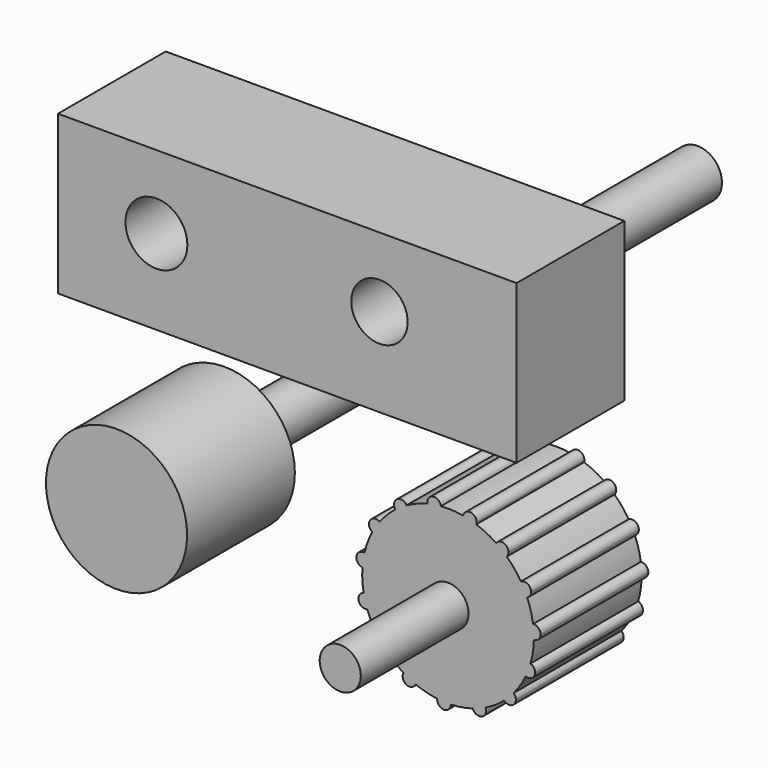
from build123d import *

# Parameters (mm, degrees)
F0_W     = 86.4718928933
F0_H     = 29.8421988264
F0_R     = 5.8367301555
F0_R_2   = 5.3169441362
F1_DEPTH = 25.4
F2_DEPTH = 25.4
F0_R_3   = 13.3089651356
F3_R     = 4.5956390335
F4_DEPTH = 111.5549
F5_R     = 3.875354641
F6_DEPTH = 25.4


with BuildPart() as f1:
    # F0 (on Front) → F1 (new body)
    with BuildSketch(Plane.XZ):
        with Locations((-7.9892538488, 28.6673116498)):
            Rectangle(F0_W, F0_H)
        with Locations((-32.6619371772, 29.7247134149)):
            Circle(F0_R, mode=Mode.SUBTRACT)
        with Locations((9.3991197646, 30.4296482354)):
            Circle(F0_R_2, mode=Mode.SUBTRACT)
    extrude(amount=F1_DEPTH)

    # F0 (on Front) → F2 (join)
    with BuildSketch(Plane.XZ):
        with Locations((-7.9892538488, 28.6673116498)):
            Rectangle(F0_W, F0_H)
        with Locations((-32.6619371772, 29.7247134149)):
            Circle(F0_R, mode=Mode.SUBTRACT)
        with Locations((9.3991197646, 30.4296482354)):
            Circle(F0_R_2, mode=Mode.SUBTRACT)
    extrude(amount=F2_DEPTH)


with BuildPart() as f2:
    # F0 (on Front) → F2, piece 2 (new body)
    with BuildSketch(Plane.XZ):
        with Locations((-40.181234479, -18.4457711875)):
            Circle(F0_R_3)
    extrude(amount=F2_DEPTH)

    # F3 (on face) → F4 (join)
    with BuildSketch(Plane(origin=(0, 0, 0), x_dir=(-1, 0, 0), z_dir=(0, 1, 0))):
        with Locations((40.181234479, -18.4457711875)):
            Circle(F3_R)
    extrude(amount=F4_DEPTH)


with BuildPart() as f2b:
    # F0 (on Front) → F2, piece 3 (new body)
    with BuildSketch(Plane.XZ):
        with BuildLine():
            ThreePointArc((38.5053209927, -14.566920689), (38.5081715854, -14.3915545669), (38.5091218202, -14.2161678523))
            ThreePointArc((38.5091218202, -14.2161678523), (38.470834554, -13.1035197974), (38.3561538866, -11.9961355131))
            ThreePointArc((38.3561538866, -11.9961355131), (37.1955306361, -13.3531996767), (38.5053209927, -14.566920689))
        make_face()
        with BuildLine():
            ThreePointArc((38.3561538866, -11.9961355131), (38.470834554, -13.1035197974), (38.5091218202, -14.2161678523))
            ThreePointArc((38.5091218202, -14.2161678523), (38.5081715854, -14.3915545669), (38.5053209927, -14.566920689))
            ThreePointArc((38.5053209927, -14.566920689), (39.4013317381, -14.181414366), (39.770518546, -13.2785569676))
            ThreePointArc((39.770518546, -13.2785569676), (39.3474885609, -12.3239585997), (38.3561538866, -11.9961355131))
        make_face()
        with BuildLine():
            ThreePointArc((38.5053209927, -14.566920689), (37.1955306361, -13.3531996767), (38.3561538866, -11.9961355131))
            ThreePointArc((38.3561538866, -11.9961355131), (37.9338888332, -9.9393941778), (37.2489420793, -7.9546169509))
            ThreePointArc((37.2489420793, -7.9546169509), (35.5587242385, -7.3785673661), (36.0670386147, -5.6667595589))
            ThreePointArc((36.0670386147, -5.6667595589), (34.8447282268, -3.9595835248), (33.4117166045, -2.4249922481))
            ThreePointArc((33.4117166045, -2.4249922481), (31.6333252992, -2.5862182972), (31.4014386276, -0.8156539676))
            ThreePointArc((31.4014386276, -0.8156539676), (29.5904314756, 0.2467705198), (27.657135713, 1.0658310732))
            ThreePointArc((27.657135713, 1.0658310732), (26.0980709561, 0.1952068389), (25.1660785488, 1.7183810332))
            ThreePointArc((25.1660785488, 1.7183810332), (23.0795142218, 1.9523511282), (20.9802187196, 1.9142579478))
            ThreePointArc((20.9802187196, 1.9142579478), (20.987501608, 1.8354467404), (20.9899322942, 1.7563370784))
            ThreePointArc((20.9899322942, 1.7563370784), (19.831598117, 0.4743601917), (18.4391087823, 1.4971877709))
            ThreePointArc((18.4391087823, 1.4971877709), (16.4377732083, 0.8622479185), (14.5354652304, -0.0264123389))
            ThreePointArc((14.5354652304, -0.0264123389), (14.6729905921, -0.3460548311), (14.7199744587, -0.6908403648))
            ThreePointArc((14.7199744587, -0.6908403648), (13.8253321714, -1.9177242224), (12.3836835135, -1.44098743))
            ThreePointArc((12.3836835135, -1.44098743), (10.8136257948, -2.8350503611), (9.4372316724, -4.4206202636))
            ThreePointArc((9.4372316724, -4.4206202636), (9.841639124, -4.8812771813), (9.9874396967, -5.4766698043))
            ThreePointArc((9.9874396967, -5.4766698043), (9.3392725141, -6.594839921), (8.046840783, -6.5881073848))
            ThreePointArc((8.046840783, -6.5881073848), (7.1795381627, -8.5002472491), (6.5670489438, -10.5085673562))
            ThreePointArc((6.5670489438, -10.5085673562), (7.3160642218, -10.9536596544), (7.6106262623, -11.7736378522))
            ThreePointArc((7.6106262623, -11.7736378522), (7.1809452542, -12.7342248282), (6.178460098, -13.0541882932))
            ThreePointArc((6.178460098, -13.0541882932), (6.1638770783, -15.1537787369), (6.4211977132, -17.2375922571))
            ThreePointArc((6.4211977132, -17.2375922571), (7.5137401112, -17.4842147362), (8.000506791, -18.4929415268))
            ThreePointArc((8.000506791, -18.4929415268), (7.7517741331, -19.2539631019), (7.1016014527, -19.7211860236))
            ThreePointArc((7.1016014527, -19.7211860236), (7.9422595701, -21.6451887849), (9.0248969832, -23.4441854296))
            ThreePointArc((9.0248969832, -23.4441854296), (10.3756531718, -23.3193629975), (11.0896673975, -24.4727521798))
            ThreePointArc((11.0896673975, -24.4727521798), (10.9764369542, -25.0009480594), (10.6566453202, -25.4363161007))
            ThreePointArc((10.6566453202, -25.4363161007), (12.2071871492, -26.852053623), (13.9279434964, -28.055170529))
            ThreePointArc((13.9279434964, -28.055170529), (15.3775912787, -27.4314632923), (16.3439641486, -28.6791062244))
            ThreePointArc((16.3439641486, -28.6791062244), (16.3148676875, -28.951391714), (16.2288923194, -29.2113806137))
            ThreePointArc((16.2288923194, -29.2113806137), (18.2212150915, -29.874059018), (20.2825559678, -30.2732663423))
            ThreePointArc((20.2825559678, -30.2732663423), (21.6220680736, -29.0973181339), (22.8548814025, -30.3846868328))
            ThreePointArc((22.8548814025, -30.3846868328), (22.8548736323, -30.38916175), (22.8548503218, -30.3936366131))
            ThreePointArc((22.8548503218, -30.3936366131), (24.94446333, -30.188672783), (26.9899641712, -29.7149439525))
            ThreePointArc((26.9899641712, -29.7149439525), (27.7395339696, -28.0941988797), (29.3888309939, -28.7786612961))
            ThreePointArc((29.3888309939, -28.7786612961), (31.2144211656, -27.7414953398), (32.8903962933, -26.476742373))
            ThreePointArc((32.8903962933, -26.476742373), (32.9159459677, -24.6912405702), (34.7010497181, -24.6456985665))
            ThreePointArc((34.7010497181, -24.6456985665), (35.9469559276, -22.9556659002), (36.9636140166, -21.118576075))
            ThreePointArc((36.9636140166, -21.118576075), (36.2607257961, -19.4770470247), (37.872975617, -18.7093752271))
            ThreePointArc((37.872975617, -18.7093752271), (38.3237693619, -16.6586978523), (38.5053209927, -14.566920689))
        make_face()
        with BuildLine():
            ThreePointArc((36.0670386147, -5.6667595589), (35.5587242385, -7.3785673661), (37.2489420793, -7.9546169509))
            ThreePointArc((37.2489420793, -7.9546169509), (36.7035602429, -6.7871469197), (36.0670386147, -5.6667595589))
        make_face()
        with BuildLine():
            ThreePointArc((36.0670386147, -5.6667595589), (36.7035602429, -6.7871469197), (37.2489420793, -7.9546169509))
            ThreePointArc((37.2489420793, -7.9546169509), (37.7905729989, -7.4791229955), (37.9921360541, -6.7871469197))
            ThreePointArc((37.9921360541, -6.7871469197), (37.3517196553, -5.6734517202), (36.0670386147, -5.6667595589))
        make_face()
        with BuildLine():
            ThreePointArc((38.7548574616, -19.9320884555), (38.5113853843, -19.1783074484), (37.872975617, -18.7093752271))
            ThreePointArc((37.872975617, -18.7093752271), (37.4662816503, -19.9320884555), (36.9636140166, -21.118576075))
            ThreePointArc((36.9636140166, -21.118576075), (38.1778651899, -21.0063679757), (38.7548574616, -19.9320884555))
        make_face()
        with BuildLine():
            ThreePointArc((36.9636140166, -21.118576075), (37.4662816503, -19.9320884555), (37.872975617, -18.7093752271))
            ThreePointArc((37.872975617, -18.7093752271), (36.2607257961, -19.4770470247), (36.9636140166, -21.118576075))
        make_face()
        with BuildLine():
            ThreePointArc((31.4014386276, -0.8156539676), (31.6333252992, -2.5862182972), (33.4117166045, -2.4249922481))
            ThreePointArc((33.4117166045, -2.4249922481), (32.4386326638, -1.5802820815), (31.4014386276, -0.8156539676))
        make_face()
        with BuildLine():
            ThreePointArc((31.4014386276, -0.8156539676), (32.4386326638, -1.5802820815), (33.4117166045, -2.4249922481))
            ThreePointArc((33.4117166045, -2.4249922481), (33.645761499, -2.0311341598), (33.727208475, -1.5802820815))
            ThreePointArc((33.727208475, -1.5802820815), (32.841077986, -0.3561638748), (31.4014386276, -0.8156539676))
        make_face()
        with BuildLine():
            ThreePointArc((35.1207698295, -25.5972853435), (35.0111796118, -25.0772655443), (34.7010497181, -24.6456985665))
            ThreePointArc((34.7010497181, -24.6456985665), (33.8321940182, -25.5972853435), (32.8903962933, -26.476742373))
            ThreePointArc((32.8903962933, -26.476742373), (34.3048724787, -26.7960358156), (35.1207698295, -25.5972853435))
        make_face()
        with BuildLine():
            ThreePointArc((32.8903962933, -26.476742373), (33.8321940182, -25.5972853435), (34.7010497181, -24.6456985665))
            ThreePointArc((34.7010497181, -24.6456985665), (32.9159459677, -24.6912405702), (32.8903962933, -26.476742373))
        make_face()
        with BuildLine():
            ThreePointArc((25.1660785488, 1.7183810332), (26.0980709561, 0.1952068389), (27.657135713, 1.0658310732))
            ThreePointArc((27.657135713, 1.0658310732), (26.4246047215, 1.4417233135), (25.1660785488, 1.7183810332))
        make_face()
        with BuildLine():
            ThreePointArc((25.1660785488, 1.7183810332), (26.4246047215, 1.4417233135), (27.657135713, 1.0658310732))
            ThreePointArc((27.657135713, 1.0658310732), (27.6990923134, 1.251699632), (27.7131805327, 1.4417233135))
            ThreePointArc((27.7131805327, 1.4417233135), (26.5637471617, 2.7227646878), (25.1660785488, 1.7183810332))
        make_face()
        with BuildLine():
            ThreePointArc((29.4966224159, -29.2945836231), (29.46938673, -29.0310523924), (29.3888309939, -28.7786612961))
            ThreePointArc((29.3888309939, -28.7786612961), (28.2080466047, -29.2945836231), (26.9899641712, -29.7149439525))
            ThreePointArc((26.9899641712, -29.7149439525), (28.4211616692, -30.5654138992), (29.4966224159, -29.2945836231))
        make_face()
        with BuildLine():
            ThreePointArc((26.9899641712, -29.7149439525), (28.2080466047, -29.2945836231), (29.3888309939, -28.7786612961))
            ThreePointArc((29.3888309939, -28.7786612961), (27.7395339696, -28.0941988797), (26.9899641712, -29.7149439525))
        make_face()
        with BuildLine():
            ThreePointArc((20.9899322942, 1.7563370784), (20.987501608, 1.8354467404), (20.9802187196, 1.9142579478))
            ThreePointArc((20.9802187196, 1.9142579478), (19.701356483, 1.7563370784), (18.4391087823, 1.4971877709))
            ThreePointArc((18.4391087823, 1.4971877709), (19.831598117, 0.4743601917), (20.9899322942, 1.7563370784))
        make_face()
        with BuildLine():
            ThreePointArc((18.4391087823, 1.4971877709), (19.701356483, 1.7563370784), (20.9802187196, 1.9142579478))
            ThreePointArc((20.9802187196, 1.9142579478), (19.4926559947, 3.0278997892), (18.4391087823, 1.4971877709))
        make_face()
        with BuildLine():
            ThreePointArc((20.2825559678, -30.2732663423), (21.5060727199, -31.671854119), (22.8548503218, -30.3936366131))
            ThreePointArc((22.8548503218, -30.3936366131), (21.5663055912, -30.3846868328), (20.2825559678, -30.2732663423))
        make_face()
        with BuildLine():
            ThreePointArc((20.2825559678, -30.2732663423), (21.5663055912, -30.3846868328), (22.8548503218, -30.3936366131))
            ThreePointArc((22.8548503218, -30.3936366131), (22.8548736323, -30.38916175), (22.8548814025, -30.3846868328))
            ThreePointArc((22.8548814025, -30.3846868328), (21.6220680736, -29.0973181339), (20.2825559678, -30.2732663423))
        make_face()
        with BuildLine():
            ThreePointArc((14.7199744587, -0.6908403648), (14.6729905921, -0.3460548311), (14.5354652304, -0.0264123389))
            ThreePointArc((14.5354652304, -0.0264123389), (13.4313986474, -0.6908403648), (12.3836835135, -1.44098743))
            ThreePointArc((12.3836835135, -1.44098743), (13.8253321714, -1.9177242224), (14.7199744587, -0.6908403648))
        make_face()
        with BuildLine():
            ThreePointArc((12.3836835135, -1.44098743), (13.4313986474, -0.6908403648), (14.5354652304, -0.0264123389))
            ThreePointArc((14.5354652304, -0.0264123389), (12.7235501159, 0.3859038378), (12.3836835135, -1.44098743))
        make_face()
        with BuildLine():
            ThreePointArc((13.9279434964, -28.055170529), (14.4768247703, -29.830493136), (16.2288923194, -29.2113806137))
            ThreePointArc((16.2288923194, -29.2113806137), (15.0553883374, -28.6791062244), (13.9279434964, -28.055170529))
        make_face()
        with BuildLine():
            ThreePointArc((13.9279434964, -28.055170529), (15.0553883374, -28.6791062244), (16.2288923194, -29.2113806137))
            ThreePointArc((16.2288923194, -29.2113806137), (16.3148676875, -28.951391714), (16.3439641486, -28.6791062244))
            ThreePointArc((16.3439641486, -28.6791062244), (15.3775912787, -27.4314632923), (13.9279434964, -28.055170529))
        make_face()
        with BuildLine():
            ThreePointArc((9.9874396967, -5.4766698043), (9.841639124, -4.8812771813), (9.4372316724, -4.4206202636))
            ThreePointArc((9.4372316724, -4.4206202636), (8.6988638855, -5.4766698043), (8.046840783, -6.5881073848))
            ThreePointArc((8.046840783, -6.5881073848), (9.3392725141, -6.594839921), (9.9874396967, -5.4766698043))
        make_face()
        with BuildLine():
            ThreePointArc((8.046840783, -6.5881073848), (8.6988638855, -5.4766698043), (9.4372316724, -4.4206202636))
            ThreePointArc((9.4372316724, -4.4206202636), (7.6142607524, -4.7809229646), (8.046840783, -6.5881073848))
        make_face()
        with BuildLine():
            ThreePointArc((9.0248969832, -23.4441854296), (8.8042362203, -25.2892734598), (10.6566453202, -25.4363161007))
            ThreePointArc((10.6566453202, -25.4363161007), (9.8010915862, -24.4727521798), (9.0248969832, -23.4441854296))
        make_face()
        with BuildLine():
            ThreePointArc((9.0248969832, -23.4441854296), (9.8010915862, -24.4727521798), (10.6566453202, -25.4363161007))
            ThreePointArc((10.6566453202, -25.4363161007), (10.9764369542, -25.0009480594), (11.0896673975, -24.4727521798))
            ThreePointArc((11.0896673975, -24.4727521798), (10.3756531718, -23.3193629975), (9.0248969832, -23.4441854296))
        make_face()
        with BuildLine():
            ThreePointArc((7.6106262623, -11.7736378522), (7.3160642218, -10.9536596544), (6.5670489438, -10.5085673562))
            ThreePointArc((6.5670489438, -10.5085673562), (6.3220504511, -11.7736378522), (6.178460098, -13.0541882932))
            ThreePointArc((6.178460098, -13.0541882932), (7.1809452542, -12.7342248282), (7.6106262623, -11.7736378522))
        make_face()
        with BuildLine():
            ThreePointArc((6.178460098, -13.0541882932), (6.3220504511, -11.7736378522), (6.5670489438, -10.5085673562))
            ThreePointArc((6.5670489438, -10.5085673562), (5.0482304515, -11.5791893245), (6.178460098, -13.0541882932))
        make_face()
        with BuildLine():
            ThreePointArc((6.4211977132, -17.2375922571), (5.4691491639, -18.8334132281), (7.1016014527, -19.7211860236))
            ThreePointArc((7.1016014527, -19.7211860236), (6.7119309798, -18.4929415268), (6.4211977132, -17.2375922571))
        make_face()
        with BuildLine():
            ThreePointArc((6.4211977132, -17.2375922571), (6.7119309798, -18.4929415268), (7.1016014527, -19.7211860236))
            ThreePointArc((7.1016014527, -19.7211860236), (7.7517741331, -19.2539631019), (8.000506791, -18.4929415268))
            ThreePointArc((8.000506791, -18.4929415268), (7.5137401112, -17.4842147362), (6.4211977132, -17.2375922571))
        make_face()
    extrude(amount=F2_DEPTH)

    # F5 (on face) → F6 (join)
    with BuildSketch(Plane.XZ.offset(25.4)):
        with Locations((22.3229099065, -14.2161678523)):
            Circle(F5_R)
    extrude(amount=F6_DEPTH)


solid = Compound([f1.part, f2.part, f2b.part])
